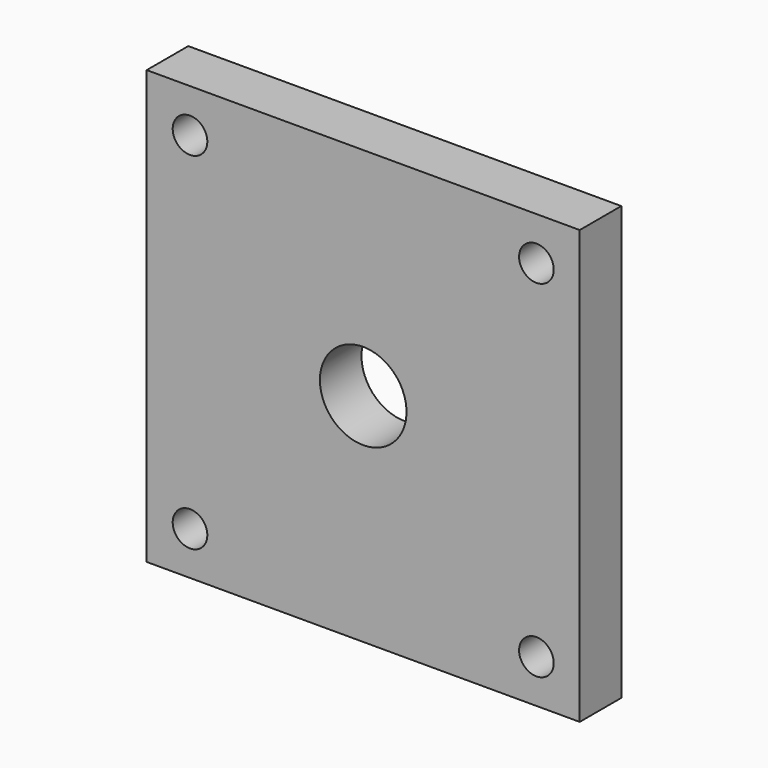
from build123d import *

# Parameters (mm, degrees)
F0_W     = 100
F0_H     = 100
F1_DEPTH = 12
F2_R     = 4
F3_DEPTH = 12
F5_DEPTH = 18
F4_R     = 10
F6_DEPTH = 18


with BuildPart() as f1:
    # F0 (on Front) → F1 (new body)
    with BuildSketch(Plane.XZ):
        with Locations((50, -50)):
            Rectangle(F0_W, F0_H)
    extrude(amount=F1_DEPTH)

    # F2 (on face) → F3 (cut)
    with BuildSketch(Plane(origin=(0, 0, 0), x_dir=(-1, 0, 0), z_dir=(0, 1, 0))):
        with Locations((-90, -90)):
            Circle(F2_R)
        with Locations((-10, -90)):
            Circle(F2_R)
        with Locations((-10, -10)):
            Circle(F2_R)
        with Locations((-90, -10)):
            Circle(F2_R)
    extrude(amount=-F3_DEPTH, mode=Mode.SUBTRACT)

    # F4 (on face) → F5 (join)
    with BuildSketch(Plane(origin=(0, 0, 0), x_dir=(-1, 0, 0), z_dir=(0, 1, 0))):
        with BuildLine():
            ThreePointArc((-85, -70), (-80.606602, -80.606602), (-70, -85))
            Line((-70, -85), (-30, -85))
            ThreePointArc((-30, -85), (-19.393398, -80.606602), (-15, -70))
            Line((-15, -70), (-15, -30))
            ThreePointArc((-15, -30), (-19.393398, -19.393398), (-30, -15))
            Line((-30, -15), (-70, -15))
            ThreePointArc((-70, -15), (-80.606602, -19.393398), (-85, -30))
            Line((-85, -30), (-85, -70))
        make_face()
        with BuildLine():
            Line((-30, -80), (-70, -80))
            ThreePointArc((-70, -80), (-77.071068, -77.071068), (-80, -70))
            Line((-80, -70), (-80, -30))
            ThreePointArc((-80, -30), (-77.071068, -22.928932), (-70, -20))
            Line((-70, -20), (-30, -20))
            ThreePointArc((-30, -20), (-22.928932, -22.928932), (-20, -30))
            Line((-20, -30), (-20, -70))
            ThreePointArc((-20, -70), (-22.928932, -77.071068), (-30, -80))
        make_face(mode=Mode.SUBTRACT)
    extrude(amount=F5_DEPTH)

    # F4 (on face) → F6 (cut)
    with BuildSketch(Plane(origin=(0, 0, 0), x_dir=(-1, 0, 0), z_dir=(0, 1, 0))):
        with Locations((-50, -50)):
            Circle(F4_R)
    extrude(amount=-F6_DEPTH, mode=Mode.SUBTRACT)


solid = f1.part
